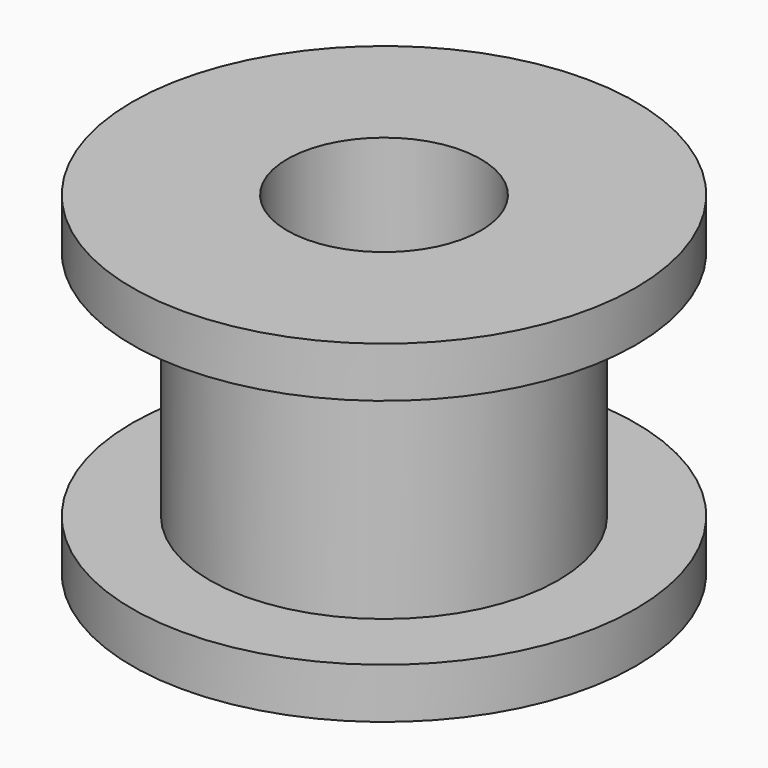
from build123d import *


with BuildPart() as part:
    # Sketch → Revolution (revolve)
    with BuildSketch(Plane.YZ):
        Polygon((-6.5, 8.6), (-2.5, 8.6), (-2.5, 0), (-6.5, 0), (-6.5, 1.3), (-4.5, 1.3), (-4.5, 7.3), (-6.5, 7.3), align=None)
    revolve(axis=Axis((0, 0, 0), (0, 0, 1)))


solid = part.part
